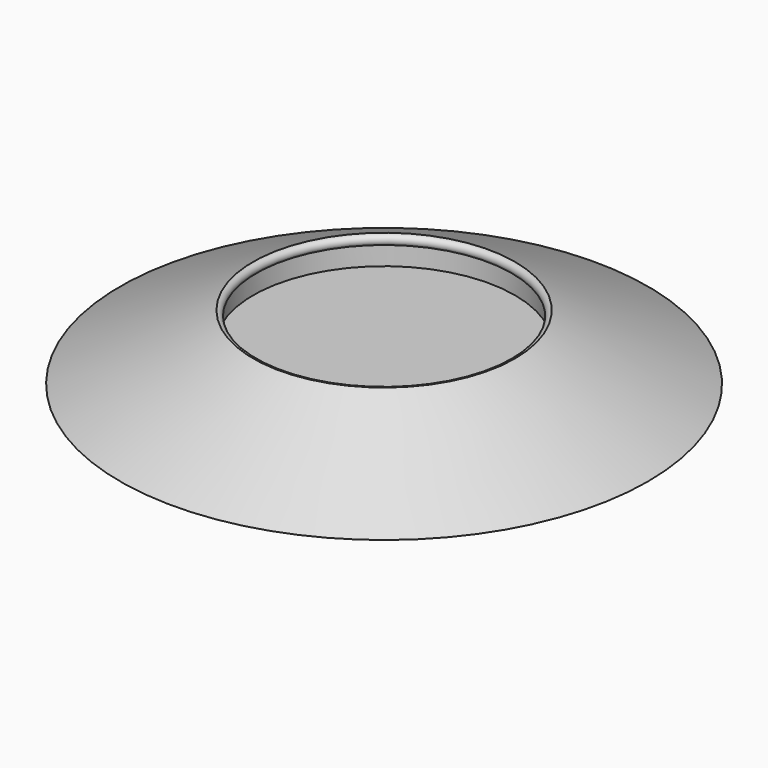
from build123d import *


with BuildPart() as part:
    # Sketch → Revolution (revolve)
    with BuildSketch(Plane.XZ):
        with BuildLine():
            Line((32.5, 0), (16.125, 8))
            ThreePointArc((16.125, 8), (15.5, 7.375), (16.125, 6.75))
            Line((16.125, 4.375), (16.125, 6.75))
            Line((0, 4.375), (16.125, 4.375))
            Line((0, 0), (0, 4.375))
            Line((0, 0), (32.5, 0))
        make_face()
    revolve(axis=Axis((0, 0, 0), (0, 0, 1)))


solid = part.part
